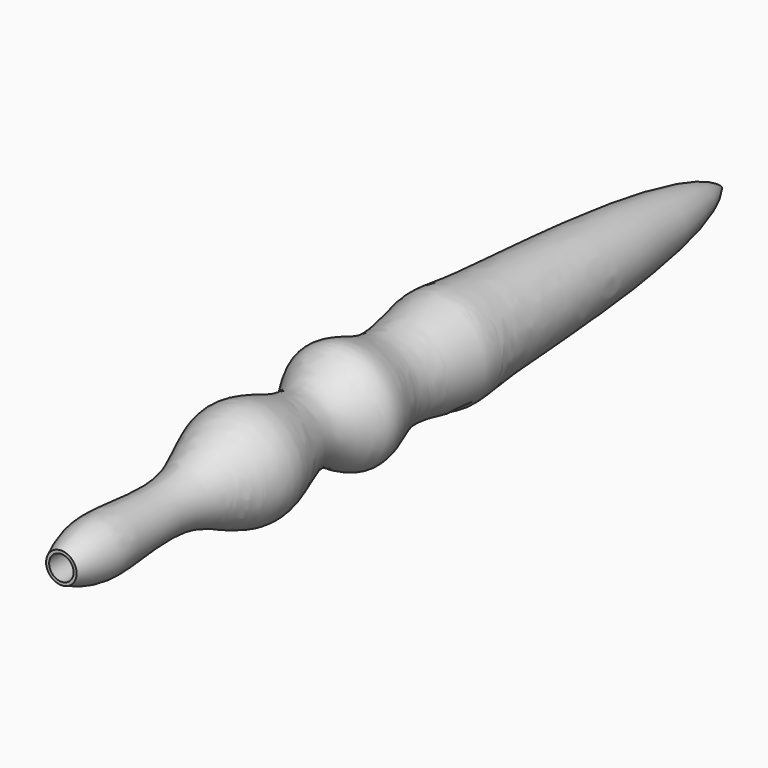
from build123d import *

# Parameters (mm, degrees)
F2_R     = 2
F3_DEPTH = 125


with BuildPart() as f1:
    # F0 (on Right) → F1 (revolve)
    with BuildSketch(Plane.YZ):
        with BuildLine():
            Line((0, 2.5), (0, 0))
            Line((0, 0), (135, 0))
            add(Edge.make_bspline(
                [(0, 2.5), (1.8728036797, 3.3310047337), (7.3524037502, 5.6897342393), (24.5736267592, 1.6659889993), (36.8052827744, 11.7188435589), (49.5665884918, 2.7200234668), (56.6949131651, 11.1506715949), (65.1085287643, 5.0753467184), (77.2910487131, 8.954700263), (83.5603248898, 6.8654255918), (129.0118644849, 6.0098583128), (135, 0)],
                knots=[0, 0, 0, 0, 0.081629094, 0.2047374602, 0.3176367203, 0.4232383523, 0.5084302517, 0.59718062, 0.6966339912, 0.7870426191, 1, 1, 1, 1], degree=3))
        make_face()
    revolve(axis=Axis((0, 67.5, 0), (0, 1, 0)))

    # F2 (on face) → F3 (cut)
    with BuildSketch(Plane.XZ):
        Circle(F2_R)
    extrude(amount=-F3_DEPTH, mode=Mode.SUBTRACT)


solid = f1.part
